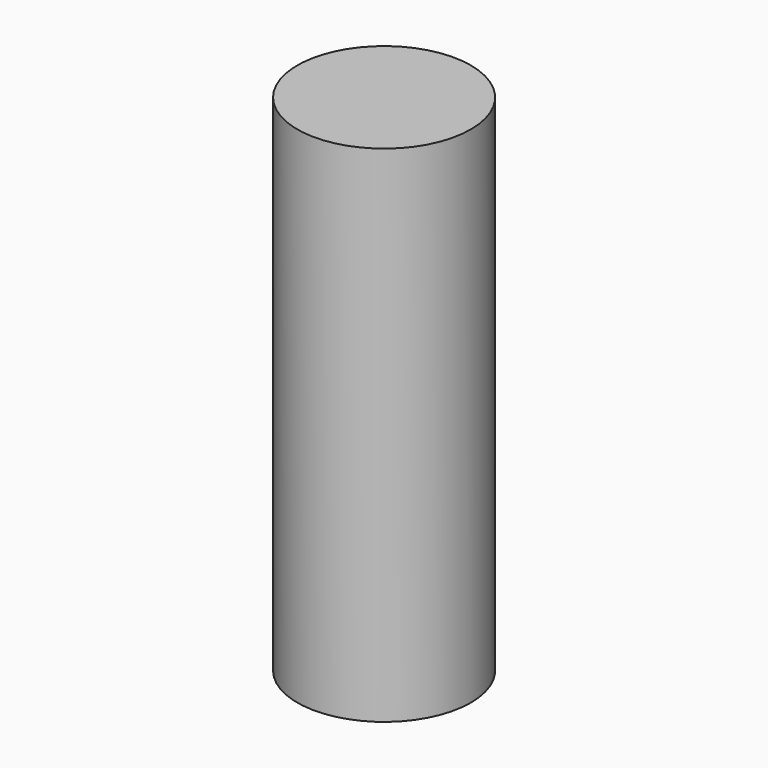
from build123d import *

# Parameters (mm, degrees)
CYLINDER_R     = 2.5781
CYLINDER_DEPTH = 15


with BuildPart() as part:
    # Cylinder → Cylinder (new body)
    with BuildSketch(Plane.XY.offset(-2.5)):
        Circle(CYLINDER_R)
    extrude(amount=CYLINDER_DEPTH)


solid = part.part
